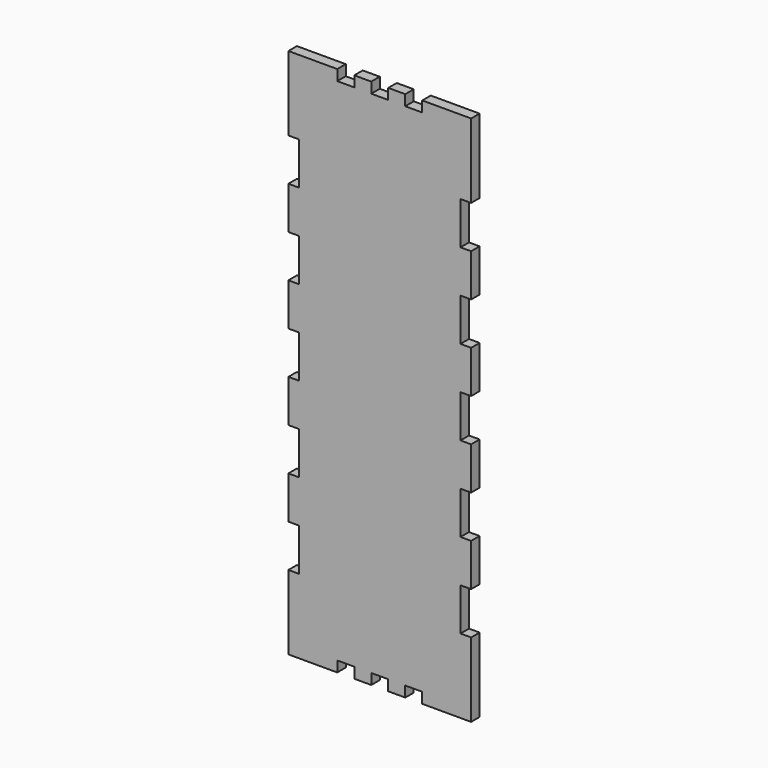
from build123d import *

# Parameters (mm, degrees)
F1_DEPTH = 3.175


with BuildPart() as f1:
    # F0 (on Front) → F1 (new body)
    with BuildSketch(Plane.XZ):
        Polygon((-12.7, 76.2), (-12.7, 79.375), (-27.305, 79.375), (-27.305, 57.15), (-24.13, 57.15), (-24.13, 44.45), (-27.305, 44.45), (-27.305, 31.75), (-24.13, 31.75), (-24.13, 19.05), (-27.305, 19.05), (-27.305, 6.35), (-24.13, 6.35), (-24.13, -6.35), (-27.305, -6.35), (-27.305, -19.05), (-24.13, -19.05), (-24.13, -31.75), (-27.305, -31.75), (-27.305, -44.45), (-24.13, -44.45), (-24.13, -57.15), (-27.305, -57.15), (-27.305, -79.375), (-12.7, -79.375), (-12.7, -76.2), (-7.62, -76.2), (-7.62, -79.375), (-2.54, -79.375), (-2.54, -76.2), (2.54, -76.2), (2.54, -79.375), (7.62, -79.375), (7.62, -76.2), (12.7, -76.2), (12.7, -79.375), (27.305, -79.375), (27.305, -57.15), (24.13, -57.15), (24.13, -44.45), (27.305, -44.45), (27.305, -31.75), (24.13, -31.75), (24.13, -19.05), (27.305, -19.05), (27.305, -6.35), (24.13, -6.35), (24.13, 6.35), (27.305, 6.35), (27.305, 19.05), (24.13, 19.05), (24.13, 31.75), (27.305, 31.75), (27.305, 44.45), (24.13, 44.45), (24.13, 57.15), (27.305, 57.15), (27.305, 79.375), (12.7, 79.375), (12.7, 76.2), (7.62, 76.2), (7.62, 79.375), (2.54, 79.375), (2.54, 76.2), (-2.54, 76.2), (-2.54, 79.375), (-7.62, 79.375), (-7.62, 76.2), align=None)
    extrude(amount=F1_DEPTH)


solid = f1.part
